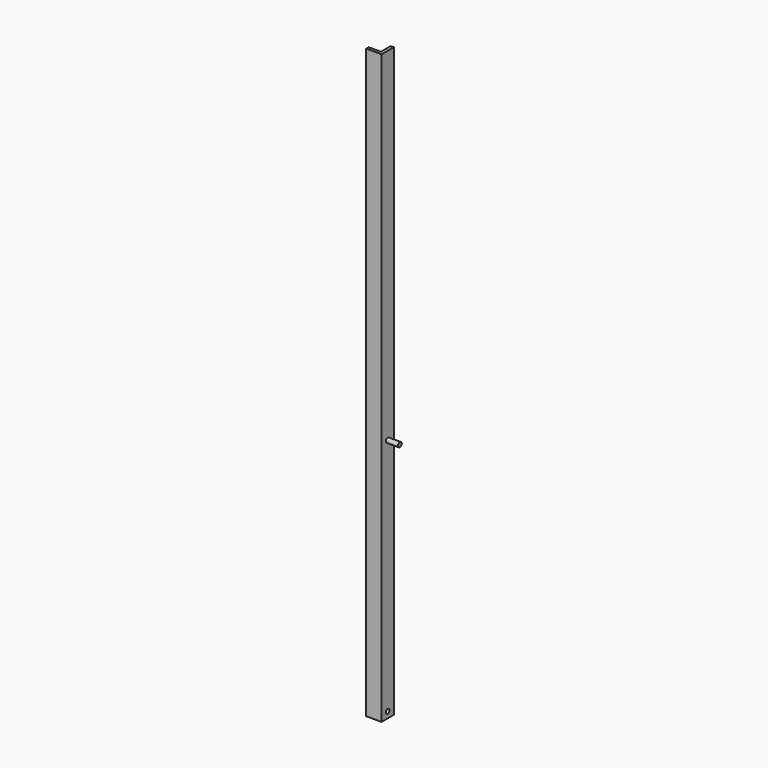
from build123d import *

# Parameters (mm, degrees)
F1_DEPTH = 1219.2
F2_R     = 4.7625
F3_DEPTH = 31.751
F4_R     = 4.7625
F5_DEPTH = 25.4


with BuildPart() as f1:
    # F0 (on Top) → F1 (new body)
    with BuildSketch(Plane.XY):
        Polygon((0, 6.35), (0, 0), (31.75, 0), (31.75, 31.75), (25.4, 31.75), (25.4, 6.35), align=None)
    extrude(amount=F1_DEPTH)

    # F2 (on face) → F3 (cut, through all)
    with BuildSketch(Plane.YZ.offset(31.75)):
        with Locations((15.875, 12.7)):
            Circle(F2_R)
    extrude(amount=-F3_DEPTH, mode=Mode.SUBTRACT)

    # F4 (on face) → F5 (join)
    with BuildSketch(Plane.YZ.offset(31.75)):
        with Locations((15.875, 508)):
            Circle(F4_R)
    extrude(amount=F5_DEPTH)


solid = f1.part
